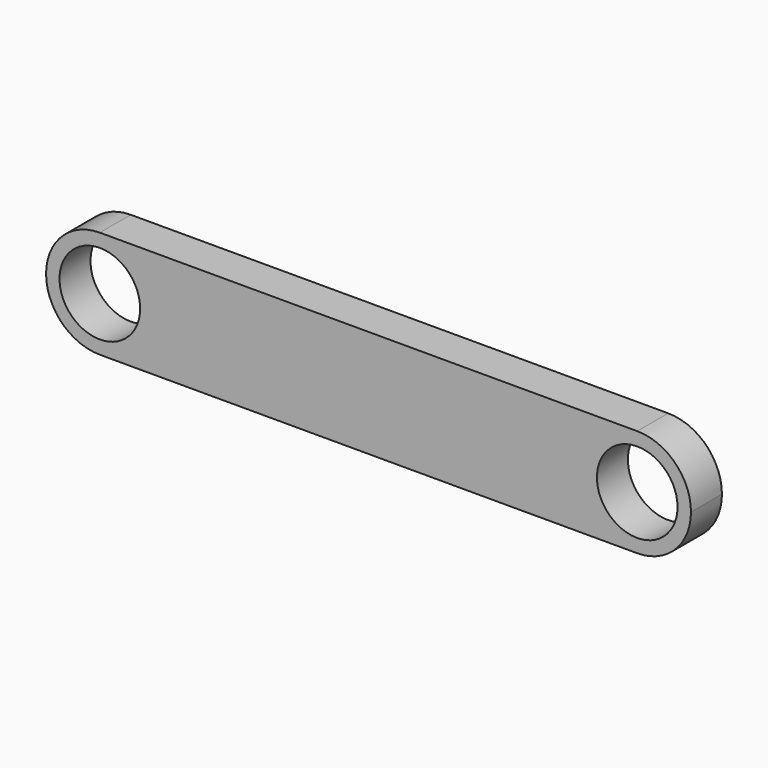
from build123d import *

# Parameters (mm, degrees)
F0_R     = 4.7625
F1_DEPTH = 4.572


with BuildPart() as f1:
    # F0 (on Front) → F1 (new body)
    with BuildSketch(Plane.XZ):
        with BuildLine():
            ThreePointArc((-31.75, -6.35), (-27.259872, -4.490128), (-25.4, 0))
            ThreePointArc((-25.4, 0), (-27.259872, 4.490128), (-31.75, 6.35))
            ThreePointArc((-31.75, 6.35), (-38.1, 0), (-31.75, -6.35))
        make_face()
        with Locations((-31.75, 0)):
            Circle(F0_R, mode=Mode.SUBTRACT)
        with BuildLine():
            ThreePointArc((-31.75, 6.35), (-27.259872, 4.490128), (-25.4, 0))
            ThreePointArc((-25.4, 0), (-27.259872, -4.490128), (-31.75, -6.35))
            Line((-31.75, -6.35), (31.75, -6.35))
            ThreePointArc((31.75, -6.35), (25.4, 0), (31.75, 6.35))
            Line((31.75, 6.35), (-31.75, 6.35))
        make_face()
        with BuildLine():
            ThreePointArc((38.1, 0), (36.240128, 4.490128), (31.75, 6.35))
            ThreePointArc((31.75, 6.35), (25.4, 0), (31.75, -6.35))
            ThreePointArc((31.75, -6.35), (36.240128, -4.490128), (38.1, 0))
        make_face()
        with Locations((31.75, 0)):
            Circle(F0_R, mode=Mode.SUBTRACT)
    extrude(amount=F1_DEPTH)


solid = f1.part
